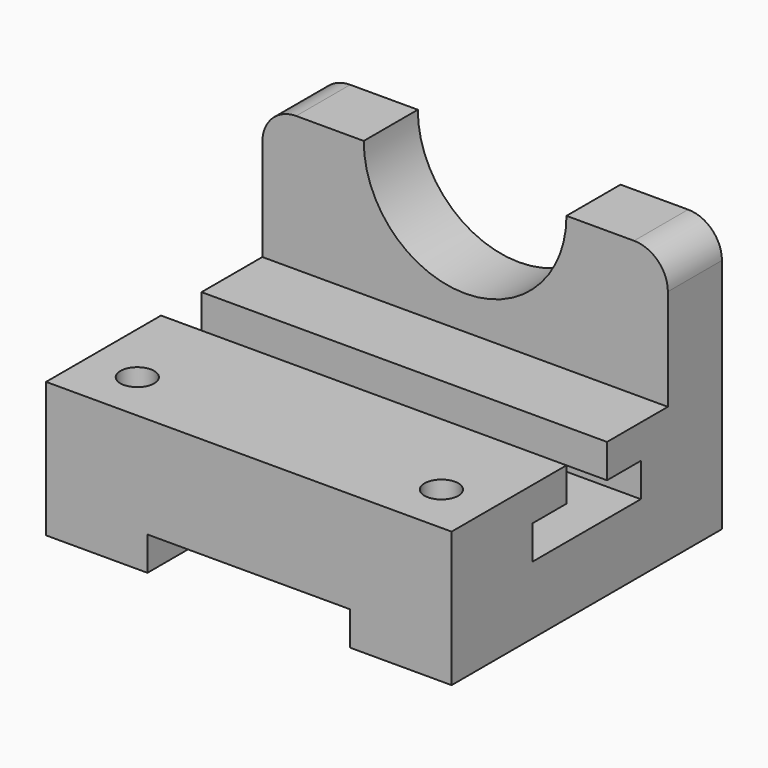
from build123d import *

# Parameters (mm, degrees)
F1_DEPTH = 152.4
F2_W     = 76.2
F2_H     = 12.7
F3_DEPTH = 127.001
F5_DEPTH = 25.4
F6_R     = 12.7
F7_R     = 6.35
F8_DEPTH = 50.801


with BuildPart() as f1:
    # F0 (on Right) → F1 (new body)
    with BuildSketch(Plane.YZ):
        Polygon((0, 50.8), (0, 0), (127, 0), (127, 101.6), (101.6, 101.6), (101.6, 50.8), (73.025, 50.8), (73.025, 38.1), (88.9, 38.1), (88.9, 25.4), (38.1, 25.4), (38.1, 38.1), (53.975, 38.1), (53.975, 50.8), align=None)
    extrude(amount=-F1_DEPTH)

    # F2 (on face) → F3 (cut, through all)
    with BuildSketch(Plane.XZ):
        with Locations((-76.2, 6.35)):
            Rectangle(F2_W, F2_H)
    extrude(amount=-F3_DEPTH, mode=Mode.SUBTRACT)

    # F4 (on face) → F5 (cut, through all)
    with BuildSketch(Plane.XZ.offset(-101.6)):
        with BuildLine():
            Line((-38.1, 101.6), (-114.3, 101.6))
            ThreePointArc((-114.3, 101.6), (-76.2, 63.5), (-38.1, 101.6))
        make_face()
    extrude(amount=-F5_DEPTH, mode=Mode.SUBTRACT)

    # F6
    f6_edges = [f1.edges().sort_by_distance(p)[0] for p in [
        (0, 114.3, 101.6),
        (-152.4, 114.3, 101.6),
    ]]
    fillet(f6_edges, radius=F6_R)

    # F7 (on face) → F8 (cut, through all)
    with BuildSketch(Plane.XY.offset(50.8)):
        with Locations((-133.35, 19.05)):
            Circle(F7_R)
        with Locations((-19.05, 19.05)):
            Circle(F7_R)
    extrude(amount=-F8_DEPTH, mode=Mode.SUBTRACT)


solid = f1.part
